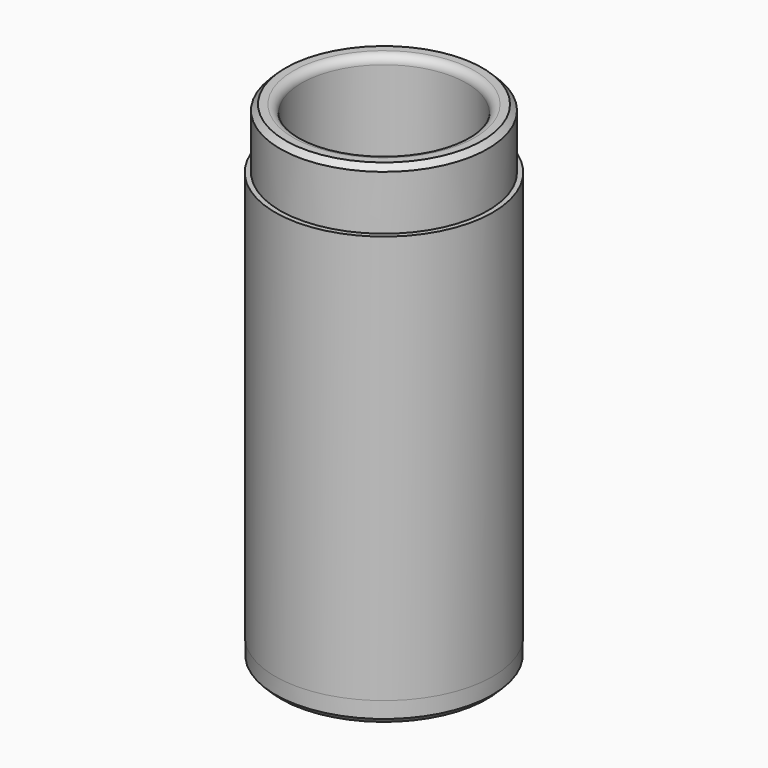
from build123d import *

# Parameters (mm, degrees)
F2_R    = 1.5
F3_SIZE = 1


with BuildPart() as f1:
    # F0 (on Front) → F1 (revolve)
    with BuildSketch(Plane.XZ):
        Polygon((-15.15, -37.5), (-15.15, 45), (-19.075, 45), (-19.075, 34), (-19.975, 34), (-19.975, -41), (-19.9, -41), (-19.9, -45), (-12.15, -45), (-12.15, -37.5), align=None)
    revolve(axis=Axis((0, 0, -0.782523), (0, 0, -1)))

    # F2
    f2_edges = [f1.edges().sort_by_distance(p)[0] for p in [
        (15.15, 0, 45),
    ]]
    fillet(f2_edges, radius=F2_R)

    # F3
    f3_edges = [f1.edges().sort_by_distance(p)[0] for p in [
        (19.075, 0, 45),
        (19.9, 0, -45),
    ]]
    chamfer(f3_edges, length=F3_SIZE)


solid = f1.part
